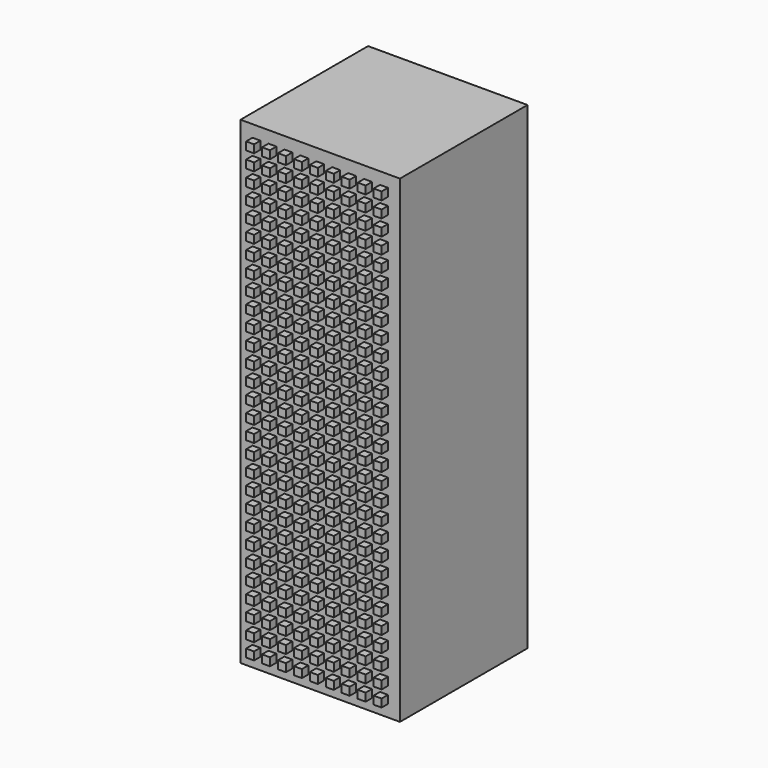
from build123d import *

# Parameters (mm, degrees)
F1_W     = 10
F1_H     = 30
F2_DEPTH = 10
F0_W     = 0.5
F0_H     = 0.5
F3_DEPTH = 0.5


with BuildPart() as f2:
    # F1 (on Front) → F2 (new body)
    with BuildSketch(Plane.XZ):
        with Locations((5, 15)):
            Rectangle(F1_W, F1_H)
    extrude(amount=-F2_DEPTH)

    # F0 (on Front) → F3 (join)
    with BuildSketch(Plane.XZ):
        with Locations((1, 1)):
            Rectangle(F0_W, F0_H)
        with Locations((2, 1)):
            Rectangle(F0_W, F0_H)
        with Locations((3, 1)):
            Rectangle(F0_W, F0_H)
        with Locations((4, 1)):
            Rectangle(F0_W, F0_H)
        with Locations((5, 1)):
            Rectangle(F0_W, F0_H)
        with Locations((6, 1)):
            Rectangle(F0_W, F0_H)
        with Locations((7, 1)):
            Rectangle(F0_W, F0_H)
        with Locations((8, 1)):
            Rectangle(F0_W, F0_H)
        with Locations((9, 1)):
            Rectangle(F0_W, F0_H)
        with Locations((3, 2)):
            Rectangle(F0_W, F0_H)
        with Locations((1, 2)):
            Rectangle(F0_W, F0_H)
        with Locations((2, 2)):
            Rectangle(F0_W, F0_H)
        with Locations((6, 2)):
            Rectangle(F0_W, F0_H)
        with Locations((5, 2)):
            Rectangle(F0_W, F0_H)
        with Locations((8, 2)):
            Rectangle(F0_W, F0_H)
        with Locations((7, 2)):
            Rectangle(F0_W, F0_H)
        with Locations((9, 2)):
            Rectangle(F0_W, F0_H)
        with Locations((4, 2)):
            Rectangle(F0_W, F0_H)
        with Locations((3, 3)):
            Rectangle(F0_W, F0_H)
        with Locations((1, 3)):
            Rectangle(F0_W, F0_H)
        with Locations((2, 3)):
            Rectangle(F0_W, F0_H)
        with Locations((6, 3)):
            Rectangle(F0_W, F0_H)
        with Locations((5, 3)):
            Rectangle(F0_W, F0_H)
        with Locations((8, 3)):
            Rectangle(F0_W, F0_H)
        with Locations((7, 3)):
            Rectangle(F0_W, F0_H)
        with Locations((9, 3)):
            Rectangle(F0_W, F0_H)
        with Locations((4, 3)):
            Rectangle(F0_W, F0_H)
        with Locations((3, 4)):
            Rectangle(F0_W, F0_H)
        with Locations((1, 4)):
            Rectangle(F0_W, F0_H)
        with Locations((2, 4)):
            Rectangle(F0_W, F0_H)
        with Locations((6, 4)):
            Rectangle(F0_W, F0_H)
        with Locations((5, 4)):
            Rectangle(F0_W, F0_H)
        with Locations((8, 4)):
            Rectangle(F0_W, F0_H)
        with Locations((7, 4)):
            Rectangle(F0_W, F0_H)
        with Locations((9, 4)):
            Rectangle(F0_W, F0_H)
        with Locations((4, 4)):
            Rectangle(F0_W, F0_H)
        with Locations((3, 5)):
            Rectangle(F0_W, F0_H)
        with Locations((1, 5)):
            Rectangle(F0_W, F0_H)
        with Locations((2, 5)):
            Rectangle(F0_W, F0_H)
        with Locations((6, 5)):
            Rectangle(F0_W, F0_H)
        with Locations((5, 5)):
            Rectangle(F0_W, F0_H)
        with Locations((8, 5)):
            Rectangle(F0_W, F0_H)
        with Locations((7, 5)):
            Rectangle(F0_W, F0_H)
        with Locations((9, 5)):
            Rectangle(F0_W, F0_H)
        with Locations((4, 5)):
            Rectangle(F0_W, F0_H)
        with Locations((3, 6)):
            Rectangle(F0_W, F0_H)
        with Locations((1, 6)):
            Rectangle(F0_W, F0_H)
        with Locations((2, 6)):
            Rectangle(F0_W, F0_H)
        with Locations((6, 6)):
            Rectangle(F0_W, F0_H)
        with Locations((5, 6)):
            Rectangle(F0_W, F0_H)
        with Locations((8, 6)):
            Rectangle(F0_W, F0_H)
        with Locations((7, 6)):
            Rectangle(F0_W, F0_H)
        with Locations((9, 6)):
            Rectangle(F0_W, F0_H)
        with Locations((4, 6)):
            Rectangle(F0_W, F0_H)
        with Locations((3, 7)):
            Rectangle(F0_W, F0_H)
        with Locations((1, 7)):
            Rectangle(F0_W, F0_H)
        with Locations((2, 7)):
            Rectangle(F0_W, F0_H)
        with Locations((6, 7)):
            Rectangle(F0_W, F0_H)
        with Locations((5, 7)):
            Rectangle(F0_W, F0_H)
        with Locations((8, 7)):
            Rectangle(F0_W, F0_H)
        with Locations((7, 7)):
            Rectangle(F0_W, F0_H)
        with Locations((9, 7)):
            Rectangle(F0_W, F0_H)
        with Locations((4, 7)):
            Rectangle(F0_W, F0_H)
        with Locations((3, 8)):
            Rectangle(F0_W, F0_H)
        with Locations((1, 8)):
            Rectangle(F0_W, F0_H)
        with Locations((2, 8)):
            Rectangle(F0_W, F0_H)
        with Locations((6, 8)):
            Rectangle(F0_W, F0_H)
        with Locations((5, 8)):
            Rectangle(F0_W, F0_H)
        with Locations((8, 8)):
            Rectangle(F0_W, F0_H)
        with Locations((7, 8)):
            Rectangle(F0_W, F0_H)
        with Locations((9, 8)):
            Rectangle(F0_W, F0_H)
        with Locations((4, 8)):
            Rectangle(F0_W, F0_H)
        with Locations((3, 9)):
            Rectangle(F0_W, F0_H)
        with Locations((1, 9)):
            Rectangle(F0_W, F0_H)
        with Locations((2, 9)):
            Rectangle(F0_W, F0_H)
        with Locations((6, 9)):
            Rectangle(F0_W, F0_H)
        with Locations((5, 9)):
            Rectangle(F0_W, F0_H)
        with Locations((8, 9)):
            Rectangle(F0_W, F0_H)
        with Locations((7, 9)):
            Rectangle(F0_W, F0_H)
        with Locations((9, 9)):
            Rectangle(F0_W, F0_H)
        with Locations((4, 9)):
            Rectangle(F0_W, F0_H)
        with Locations((3, 10)):
            Rectangle(F0_W, F0_H)
        with Locations((1, 10)):
            Rectangle(F0_W, F0_H)
        with Locations((2, 10)):
            Rectangle(F0_W, F0_H)
        with Locations((6, 10)):
            Rectangle(F0_W, F0_H)
        with Locations((5, 10)):
            Rectangle(F0_W, F0_H)
        with Locations((8, 10)):
            Rectangle(F0_W, F0_H)
        with Locations((7, 10)):
            Rectangle(F0_W, F0_H)
        with Locations((9, 10)):
            Rectangle(F0_W, F0_H)
        with Locations((4, 10)):
            Rectangle(F0_W, F0_H)
        with Locations((3, 11)):
            Rectangle(F0_W, F0_H)
        with Locations((1, 11)):
            Rectangle(F0_W, F0_H)
        with Locations((2, 11)):
            Rectangle(F0_W, F0_H)
        with Locations((6, 11)):
            Rectangle(F0_W, F0_H)
        with Locations((5, 11)):
            Rectangle(F0_W, F0_H)
        with Locations((8, 11)):
            Rectangle(F0_W, F0_H)
        with Locations((7, 11)):
            Rectangle(F0_W, F0_H)
        with Locations((9, 11)):
            Rectangle(F0_W, F0_H)
        with Locations((4, 11)):
            Rectangle(F0_W, F0_H)
        with Locations((3, 12)):
            Rectangle(F0_W, F0_H)
        with Locations((1, 12)):
            Rectangle(F0_W, F0_H)
        with Locations((2, 12)):
            Rectangle(F0_W, F0_H)
        with Locations((6, 12)):
            Rectangle(F0_W, F0_H)
        with Locations((5, 12)):
            Rectangle(F0_W, F0_H)
        with Locations((8, 12)):
            Rectangle(F0_W, F0_H)
        with Locations((7, 12)):
            Rectangle(F0_W, F0_H)
        with Locations((9, 12)):
            Rectangle(F0_W, F0_H)
        with Locations((4, 12)):
            Rectangle(F0_W, F0_H)
        with Locations((3, 13)):
            Rectangle(F0_W, F0_H)
        with Locations((1, 13)):
            Rectangle(F0_W, F0_H)
        with Locations((2, 13)):
            Rectangle(F0_W, F0_H)
        with Locations((6, 13)):
            Rectangle(F0_W, F0_H)
        with Locations((5, 13)):
            Rectangle(F0_W, F0_H)
        with Locations((8, 13)):
            Rectangle(F0_W, F0_H)
        with Locations((7, 13)):
            Rectangle(F0_W, F0_H)
        with Locations((9, 13)):
            Rectangle(F0_W, F0_H)
        with Locations((4, 13)):
            Rectangle(F0_W, F0_H)
        with Locations((3, 14)):
            Rectangle(F0_W, F0_H)
        with Locations((1, 14)):
            Rectangle(F0_W, F0_H)
        with Locations((2, 14)):
            Rectangle(F0_W, F0_H)
        with Locations((6, 14)):
            Rectangle(F0_W, F0_H)
        with Locations((5, 14)):
            Rectangle(F0_W, F0_H)
        with Locations((8, 14)):
            Rectangle(F0_W, F0_H)
        with Locations((7, 14)):
            Rectangle(F0_W, F0_H)
        with Locations((9, 14)):
            Rectangle(F0_W, F0_H)
        with Locations((4, 14)):
            Rectangle(F0_W, F0_H)
        with Locations((3, 15)):
            Rectangle(F0_W, F0_H)
        with Locations((1, 15)):
            Rectangle(F0_W, F0_H)
        with Locations((2, 15)):
            Rectangle(F0_W, F0_H)
        with Locations((6, 15)):
            Rectangle(F0_W, F0_H)
        with Locations((5, 15)):
            Rectangle(F0_W, F0_H)
        with Locations((8, 15)):
            Rectangle(F0_W, F0_H)
        with Locations((7, 15)):
            Rectangle(F0_W, F0_H)
        with Locations((9, 15)):
            Rectangle(F0_W, F0_H)
        with Locations((4, 15)):
            Rectangle(F0_W, F0_H)
        with Locations((3, 16)):
            Rectangle(F0_W, F0_H)
        with Locations((1, 16)):
            Rectangle(F0_W, F0_H)
        with Locations((2, 16)):
            Rectangle(F0_W, F0_H)
        with Locations((6, 16)):
            Rectangle(F0_W, F0_H)
        with Locations((5, 16)):
            Rectangle(F0_W, F0_H)
        with Locations((8, 16)):
            Rectangle(F0_W, F0_H)
        with Locations((7, 16)):
            Rectangle(F0_W, F0_H)
        with Locations((9, 16)):
            Rectangle(F0_W, F0_H)
        with Locations((4, 16)):
            Rectangle(F0_W, F0_H)
        with Locations((3, 17)):
            Rectangle(F0_W, F0_H)
        with Locations((1, 17)):
            Rectangle(F0_W, F0_H)
        with Locations((2, 17)):
            Rectangle(F0_W, F0_H)
        with Locations((6, 17)):
            Rectangle(F0_W, F0_H)
        with Locations((5, 17)):
            Rectangle(F0_W, F0_H)
        with Locations((8, 17)):
            Rectangle(F0_W, F0_H)
        with Locations((7, 17)):
            Rectangle(F0_W, F0_H)
        with Locations((9, 17)):
            Rectangle(F0_W, F0_H)
        with Locations((4, 17)):
            Rectangle(F0_W, F0_H)
        with Locations((3, 18)):
            Rectangle(F0_W, F0_H)
        with Locations((1, 18)):
            Rectangle(F0_W, F0_H)
        with Locations((2, 18)):
            Rectangle(F0_W, F0_H)
        with Locations((6, 18)):
            Rectangle(F0_W, F0_H)
        with Locations((5, 18)):
            Rectangle(F0_W, F0_H)
        with Locations((8, 18)):
            Rectangle(F0_W, F0_H)
        with Locations((7, 18)):
            Rectangle(F0_W, F0_H)
        with Locations((9, 18)):
            Rectangle(F0_W, F0_H)
        with Locations((4, 18)):
            Rectangle(F0_W, F0_H)
        with Locations((3, 19)):
            Rectangle(F0_W, F0_H)
        with Locations((1, 19)):
            Rectangle(F0_W, F0_H)
        with Locations((2, 19)):
            Rectangle(F0_W, F0_H)
        with Locations((6, 19)):
            Rectangle(F0_W, F0_H)
        with Locations((5, 19)):
            Rectangle(F0_W, F0_H)
        with Locations((8, 19)):
            Rectangle(F0_W, F0_H)
        with Locations((7, 19)):
            Rectangle(F0_W, F0_H)
        with Locations((9, 19)):
            Rectangle(F0_W, F0_H)
        with Locations((4, 19)):
            Rectangle(F0_W, F0_H)
        with Locations((3, 20)):
            Rectangle(F0_W, F0_H)
        with Locations((1, 20)):
            Rectangle(F0_W, F0_H)
        with Locations((2, 20)):
            Rectangle(F0_W, F0_H)
        with Locations((6, 20)):
            Rectangle(F0_W, F0_H)
        with Locations((5, 20)):
            Rectangle(F0_W, F0_H)
        with Locations((8, 20)):
            Rectangle(F0_W, F0_H)
        with Locations((7, 20)):
            Rectangle(F0_W, F0_H)
        with Locations((9, 20)):
            Rectangle(F0_W, F0_H)
        with Locations((4, 20)):
            Rectangle(F0_W, F0_H)
        with Locations((3, 21)):
            Rectangle(F0_W, F0_H)
        with Locations((1, 21)):
            Rectangle(F0_W, F0_H)
        with Locations((2, 21)):
            Rectangle(F0_W, F0_H)
        with Locations((6, 21)):
            Rectangle(F0_W, F0_H)
        with Locations((5, 21)):
            Rectangle(F0_W, F0_H)
        with Locations((8, 21)):
            Rectangle(F0_W, F0_H)
        with Locations((7, 21)):
            Rectangle(F0_W, F0_H)
        with Locations((9, 21)):
            Rectangle(F0_W, F0_H)
        with Locations((4, 21)):
            Rectangle(F0_W, F0_H)
        with Locations((3, 22)):
            Rectangle(F0_W, F0_H)
        with Locations((1, 22)):
            Rectangle(F0_W, F0_H)
        with Locations((2, 22)):
            Rectangle(F0_W, F0_H)
        with Locations((6, 22)):
            Rectangle(F0_W, F0_H)
        with Locations((5, 22)):
            Rectangle(F0_W, F0_H)
        with Locations((8, 22)):
            Rectangle(F0_W, F0_H)
        with Locations((7, 22)):
            Rectangle(F0_W, F0_H)
        with Locations((9, 22)):
            Rectangle(F0_W, F0_H)
        with Locations((4, 22)):
            Rectangle(F0_W, F0_H)
        with Locations((3, 23)):
            Rectangle(F0_W, F0_H)
        with Locations((1, 23)):
            Rectangle(F0_W, F0_H)
        with Locations((2, 23)):
            Rectangle(F0_W, F0_H)
        with Locations((6, 23)):
            Rectangle(F0_W, F0_H)
        with Locations((5, 23)):
            Rectangle(F0_W, F0_H)
        with Locations((8, 23)):
            Rectangle(F0_W, F0_H)
        with Locations((7, 23)):
            Rectangle(F0_W, F0_H)
        with Locations((9, 23)):
            Rectangle(F0_W, F0_H)
        with Locations((4, 23)):
            Rectangle(F0_W, F0_H)
        with Locations((3, 24)):
            Rectangle(F0_W, F0_H)
        with Locations((1, 24)):
            Rectangle(F0_W, F0_H)
        with Locations((2, 24)):
            Rectangle(F0_W, F0_H)
        with Locations((6, 24)):
            Rectangle(F0_W, F0_H)
        with Locations((5, 24)):
            Rectangle(F0_W, F0_H)
        with Locations((8, 24)):
            Rectangle(F0_W, F0_H)
        with Locations((7, 24)):
            Rectangle(F0_W, F0_H)
        with Locations((9, 24)):
            Rectangle(F0_W, F0_H)
        with Locations((4, 24)):
            Rectangle(F0_W, F0_H)
        with Locations((3, 25)):
            Rectangle(F0_W, F0_H)
        with Locations((1, 25)):
            Rectangle(F0_W, F0_H)
        with Locations((2, 25)):
            Rectangle(F0_W, F0_H)
        with Locations((6, 25)):
            Rectangle(F0_W, F0_H)
        with Locations((5, 25)):
            Rectangle(F0_W, F0_H)
        with Locations((8, 25)):
            Rectangle(F0_W, F0_H)
        with Locations((7, 25)):
            Rectangle(F0_W, F0_H)
        with Locations((9, 25)):
            Rectangle(F0_W, F0_H)
        with Locations((4, 25)):
            Rectangle(F0_W, F0_H)
        with Locations((3, 26)):
            Rectangle(F0_W, F0_H)
        with Locations((1, 26)):
            Rectangle(F0_W, F0_H)
        with Locations((2, 26)):
            Rectangle(F0_W, F0_H)
        with Locations((6, 26)):
            Rectangle(F0_W, F0_H)
        with Locations((5, 26)):
            Rectangle(F0_W, F0_H)
        with Locations((8, 26)):
            Rectangle(F0_W, F0_H)
        with Locations((7, 26)):
            Rectangle(F0_W, F0_H)
        with Locations((9, 26)):
            Rectangle(F0_W, F0_H)
        with Locations((4, 26)):
            Rectangle(F0_W, F0_H)
        with Locations((3, 27)):
            Rectangle(F0_W, F0_H)
        with Locations((1, 27)):
            Rectangle(F0_W, F0_H)
        with Locations((2, 27)):
            Rectangle(F0_W, F0_H)
        with Locations((6, 27)):
            Rectangle(F0_W, F0_H)
        with Locations((5, 27)):
            Rectangle(F0_W, F0_H)
        with Locations((8, 27)):
            Rectangle(F0_W, F0_H)
        with Locations((7, 27)):
            Rectangle(F0_W, F0_H)
        with Locations((9, 27)):
            Rectangle(F0_W, F0_H)
        with Locations((4, 27)):
            Rectangle(F0_W, F0_H)
        with Locations((3, 28)):
            Rectangle(F0_W, F0_H)
        with Locations((1, 28)):
            Rectangle(F0_W, F0_H)
        with Locations((2, 28)):
            Rectangle(F0_W, F0_H)
        with Locations((6, 28)):
            Rectangle(F0_W, F0_H)
        with Locations((5, 28)):
            Rectangle(F0_W, F0_H)
        with Locations((8, 28)):
            Rectangle(F0_W, F0_H)
        with Locations((7, 28)):
            Rectangle(F0_W, F0_H)
        with Locations((9, 28)):
            Rectangle(F0_W, F0_H)
        with Locations((4, 28)):
            Rectangle(F0_W, F0_H)
        with Locations((3, 29)):
            Rectangle(F0_W, F0_H)
        with Locations((1, 29)):
            Rectangle(F0_W, F0_H)
        with Locations((2, 29)):
            Rectangle(F0_W, F0_H)
        with Locations((6, 29)):
            Rectangle(F0_W, F0_H)
        with Locations((5, 29)):
            Rectangle(F0_W, F0_H)
        with Locations((8, 29)):
            Rectangle(F0_W, F0_H)
        with Locations((7, 29)):
            Rectangle(F0_W, F0_H)
        with Locations((9, 29)):
            Rectangle(F0_W, F0_H)
        with Locations((4, 29)):
            Rectangle(F0_W, F0_H)
    extrude(amount=F3_DEPTH)


solid = f2.part
